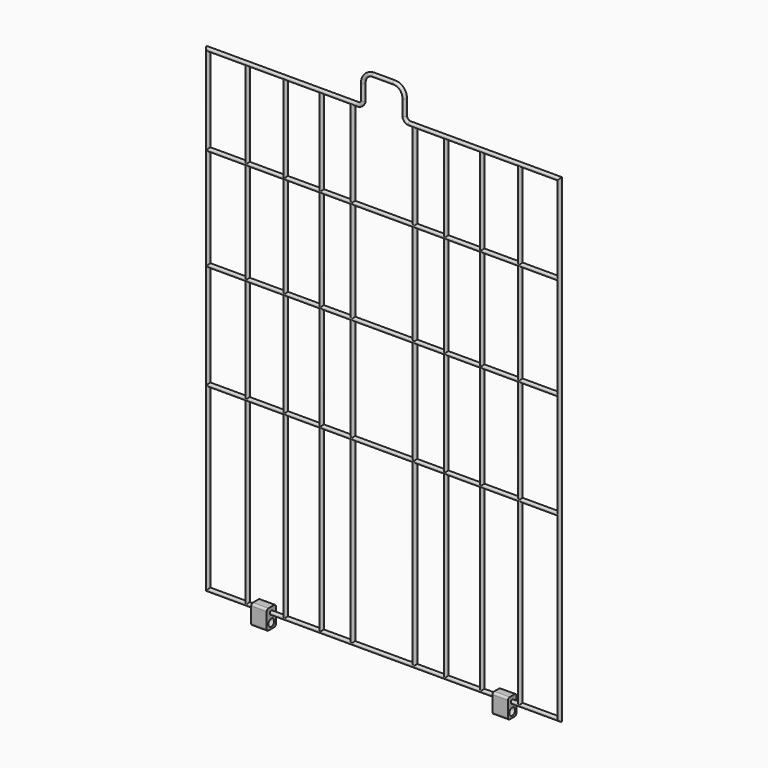
from build123d import *

# Parameters (mm, degrees)
F2_R      = 1.75
F4_R      = 1.75
F6_R      = 1.75
F10_R     = 1.75
F13_R     = 1.75
F15_R     = 1.75
F0_W      = 15
F0_H      = 14
F0_H_2    = 5
F17_DEPTH = 5.5
F18_R     = 2
F19_DEPTH = 5
F20_R     = 2
F21_R     = 3.5
F22_DEPTH = 300


with BuildPart() as f3:
    # F3: sweep along a path in F0
    with BuildLine(Plane.XZ) as f3_path:
        Line((190, 0), (45, 0))
        ThreePointArc((45, 0), (41.4644660941, 1.4644660941), (40, 5))
        Line((40, 5), (40, 20))
        ThreePointArc((40, 20), (37.0710678119, 27.0710678119), (30, 30))
        Line((30, 30), (20, 30))
        Line((20, 30), (10, 30))
        ThreePointArc((10, 30), (2.9289321881, 27.0710678119), (0, 20))
        Line((0, 20), (0, 5))
        ThreePointArc((0, 5), (-1.4644660941, 1.4644660941), (-5, 0))
        Line((-5, 0), (-150, 0))
        Line((-150, 0), (-150, -460))
        Line((-150, -460), (190, -460))
        Line((190, -460), (190, 0))
    # F2 (on offset) → F3 (sweep)
    with BuildSketch(Plane.YZ.offset(190)):
        Circle(F2_R)
    sweep(path=f3_path.line, transition=Transition.RIGHT)

    # F9: F5, F7 across plane


with BuildPart() as f5:
    # F5: sweep along a path in F0
    with BuildLine(Plane.XZ) as f5_path:
        Line((-75, 0), (-75, -460))
    # F4 (on Top) → F5 (sweep)
    with BuildSketch(Plane.XY):
        with Locations((-74.9785751104, 0)):
            Circle(F4_R)
    sweep(path=f5_path.line)


with BuildPart() as f7:
    # F7: sweep along a path in F0
    with BuildLine(Plane.XZ) as f7_path:
        Line((-10, 0), (-10, -460))
    # F6 (on Top) → F7 (sweep)
    with BuildSketch(Plane.XY):
        with Locations((-10, 0)):
            Circle(F6_R)
    sweep(path=f7_path.line)


with BuildPart() as f3_1:
    add(f3.part)
    add(f5.part.mirror(Plane.YZ.offset(20)))
    add(f7.part.mirror(Plane.YZ.offset(20)))

    # F12: F11 across plane


with BuildPart() as f11:
    # F11: sweep along a path in F0
    with BuildLine(Plane.XZ) as f11_path:
        Line((-111.9426190853, 0), (-111.9426190853, -460))
    # F10 (on Top) → F11 (sweep)
    with BuildSketch(Plane.XY):
        with Locations((-111.9426190853, 0)):
            Circle(F10_R)
        with Locations((-40.237609297, 0)):
            Circle(F10_R)
    sweep(path=f11_path.line)


with BuildPart() as f3_2:
    add(f3_1.part)
    add(f11.part.mirror(Plane.YZ.offset(20)))


    add(f5.part)  # F14 merges F5

    add(f7.part)  # F14 merges F7

    add(f11.part)  # F14 merges F11
    # F14: sweep along a path in F0
    with BuildLine(Plane.XZ) as f14_path:
        Line((-150, -285.3958010674), (190, -285.3958010674))
    # F13 (on offset) → F14 (sweep)
    with BuildSketch(Plane.YZ.offset(190)):
        with Locations((0, -285.3958010674)):
            Circle(F13_R)
    sweep(path=f14_path.line)

    # F16: sweep along a path in F0
    with BuildLine(Plane.XZ) as f16_path:
        Line((-150, -183.7798506021), (190, -183.7798506021))
    # F15 (on offset) → F16 (sweep)
    with BuildSketch(Plane.YZ.offset(190)):
        with Locations((0, -85.1364806294)):
            Circle(F15_R)
        with Locations((0, -183.827355504)):
            Circle(F15_R)
    sweep(path=f16_path.line)

    # F0 (on Front) → F17 (join, symmetric)
    with BuildSketch(Plane.XZ):
        with Locations((-96.5, -467)):
            Rectangle(F0_W, F0_H)
        with Locations((-96.5, -457.5)):
            Rectangle(F0_W, F0_H_2)
    extrude(amount=F17_DEPTH, both=True)

    # F18
    f18_edges = [f3_2.edges().sort_by_distance(p)[0] for p in [
        (-96.5, -5.5, -455),
        (-96.5, -5.5, -474),
        (-96.5, 5.5, -474),
        (-96.5, 5.5, -455),
    ]]
    fillet(f18_edges, radius=F18_R)

    # F0 (on Front) → F19 (join, symmetric)
    with BuildSketch(Plane.XZ):
        with Locations((136.5, -467)):
            Rectangle(F0_W, F0_H)
        with Locations((136.5, -457.5)):
            Rectangle(F0_W, F0_H_2)
    extrude(amount=F19_DEPTH, both=True)

    # F20
    f20_edges = [f3_2.edges().sort_by_distance(p)[0] for p in [
        (136.5, -5, -455),
        (136.5, 5, -455),
        (136.5, -5, -474),
        (136.5, 5, -474),
    ]]
    fillet(f20_edges, radius=F20_R)

    # F21 (on face) → F22 (cut)
    with BuildSketch(Plane.YZ.offset(144)):
        with Locations((0, -468.5992488843)):
            Circle(F21_R)
    extrude(amount=-F22_DEPTH, mode=Mode.SUBTRACT)


solid = f3_2.part
